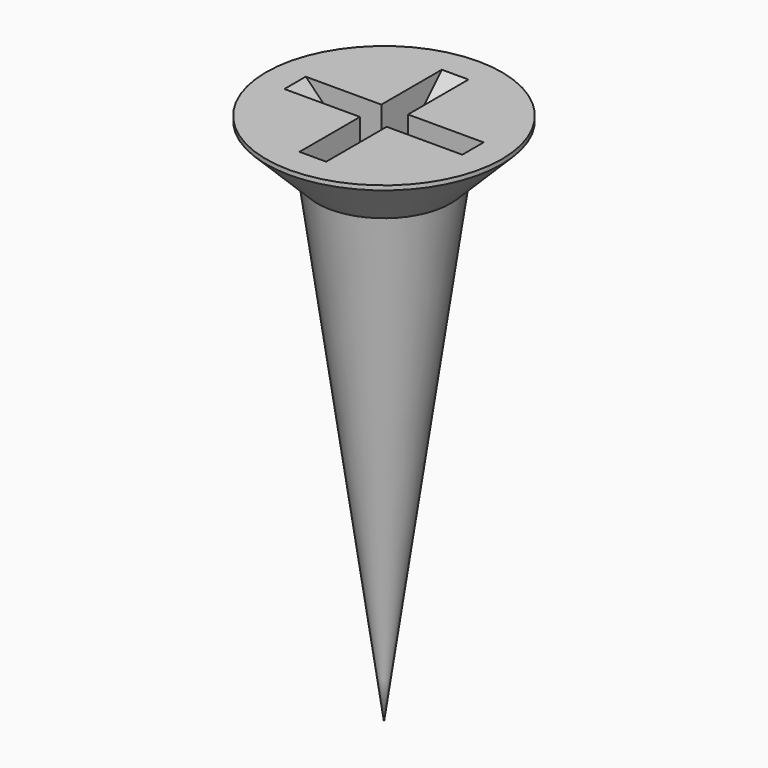
from build123d import *

# Parameters (mm, degrees)
POCKET001_DEPTH    = 0.3
POLARPATTERN_COUNT = 2
POLARPATTERN_ANGLE = 90


with BuildPart() as part:
    # Sketch013 → Revolution (revolve)
    with BuildSketch(Plane.XZ):
        Polygon((0, 0), (0, -12), (1.5, -1.25), (2.65, -0.1), (2.65, 0), align=None)
    revolve(axis=Axis((0, 0, 0), (0, 0, 1)))

    # Sketch014 → Pocket001 (cut, symmetric)
    with BuildSketch(Plane.XZ):
        Polygon((-2, 0), (0, -2), (2, 0), align=None)
    pocket001 = extrude(amount=POCKET001_DEPTH, both=True, mode=Mode.SUBTRACT)

    # PolarPattern: Pocket001 ×2 about axis
    polarpattern_axis = Axis((0, 0, 0), (0, 0, 1))
    for i in range(1, POLARPATTERN_COUNT):
        add(pocket001.rotate(polarpattern_axis, i * POLARPATTERN_ANGLE / (POLARPATTERN_COUNT - 1)), mode=Mode.SUBTRACT)


with BuildPart() as part_1:
    # Body011 placement: moved
    add(part.part.moved(Location((17, 17, 12))))


solid = part_1.part
